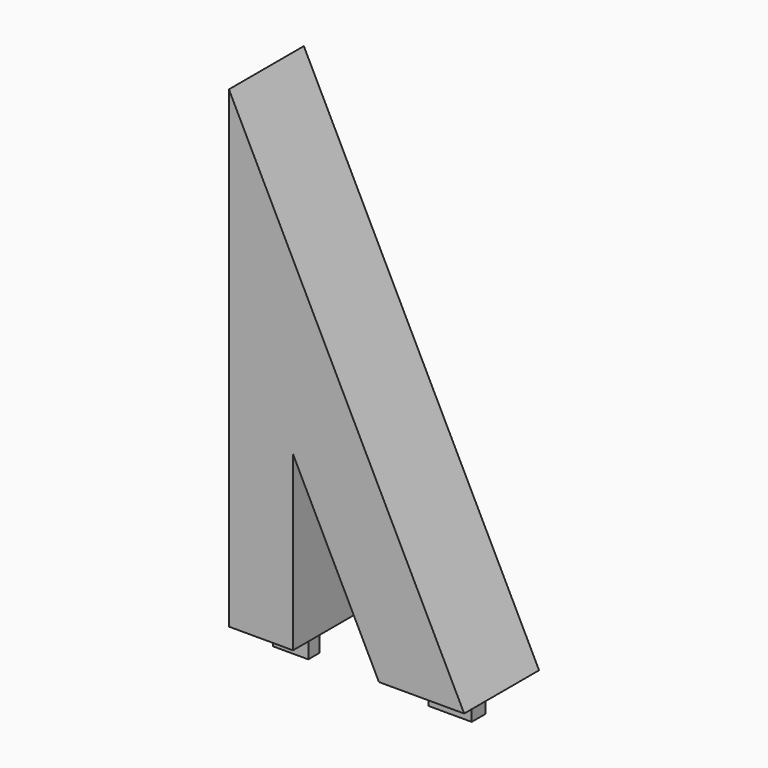
from build123d import *

# Parameters (mm, degrees)
F1_DEPTH = 10
F2_W     = 3.763588
F2_H     = 1.505818
F3_DEPTH = 3
F4_W     = 4.596189
F4_H     = 1.838945
F5_DEPTH = 3


with BuildPart() as f1:
    # F0 (on Front) → F1 (new body)
    with BuildSketch(Plane.XZ):
        Polygon((0, 50.5), (0, 0), (6.841576, 0), (6.841576, 18.445263), (16.01394, 0), (25.11394, 0), align=None)
    extrude(amount=F1_DEPTH)

    # F2 (on face) → F3 (join)
    with BuildSketch(Plane(origin=(0, 0, 0), x_dir=(1, 0, 0), z_dir=(0, 0, -1))):
        with Locations((3.376952, 5.229204)):
            Rectangle(F2_W, F2_H)
    extrude(amount=F3_DEPTH)

    # F4 (on face) → F5 (join)
    with BuildSketch(Plane(origin=(0, 0, 0), x_dir=(1, 0, 0), z_dir=(0, 0, -1))):
        with Locations((20.651922, 5.366659)):
            Rectangle(F4_W, F4_H)
    extrude(amount=F5_DEPTH)


solid = f1.part
